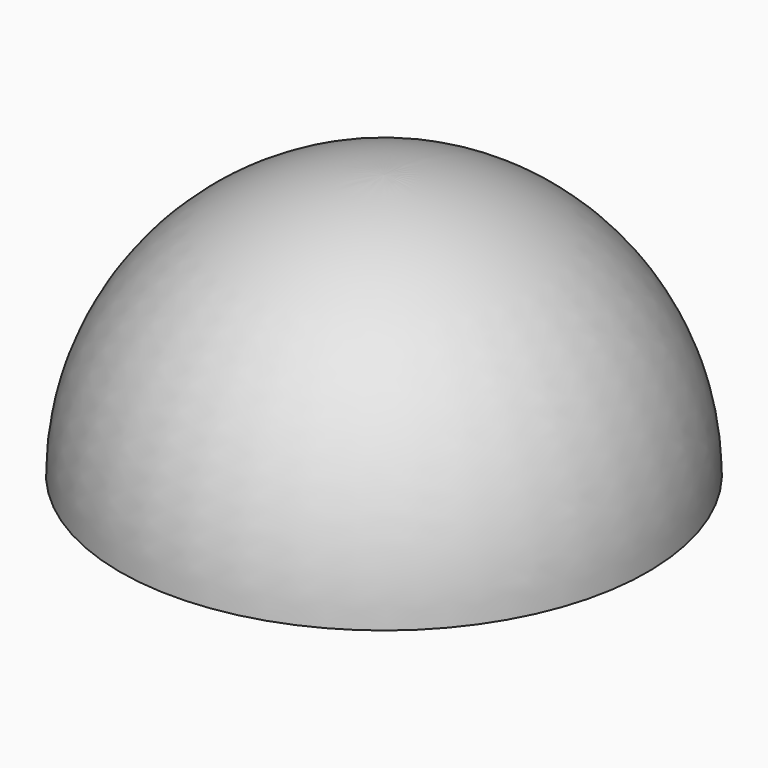
from build123d import *


with BuildPart() as f1:
    # F0 (on Right) → F1 (revolve)
    with BuildSketch(Plane.YZ):
        with BuildLine():
            Line((-42.05982, 20.339381), (-42.05982, 16.801536))
            Line((-42.05982, 16.801536), (-38.521975, 16.801536))
            ThreePointArc((-38.521975, 16.801536), (-39.567023, 19.294333), (-42.05982, 20.339381))
        make_face()
    revolve(axis=Axis((0, -42.05982, 18.570459), (0, 0, 1)))


solid = f1.part
